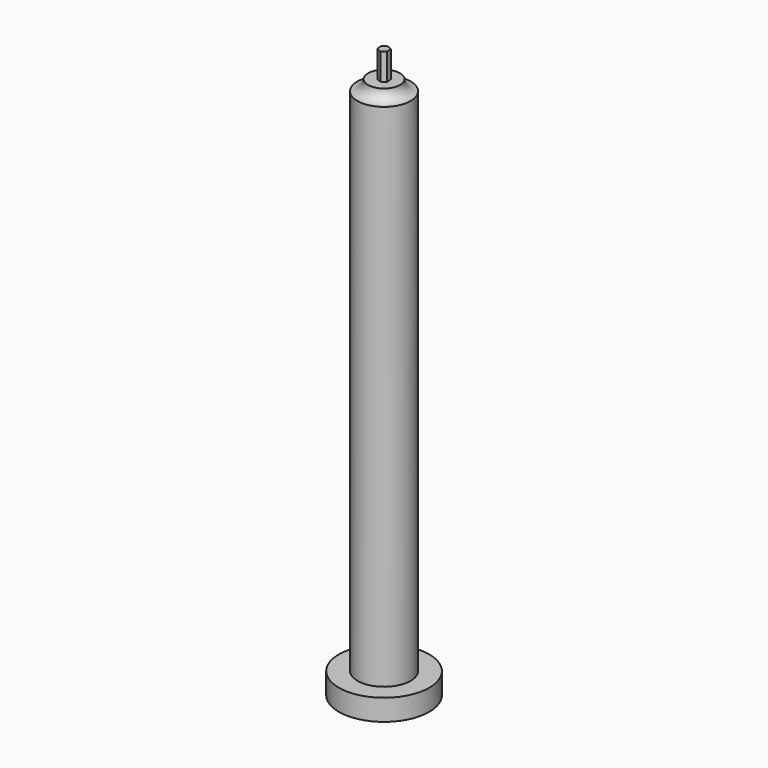
from build123d import *

# Parameters (mm, degrees)
F0_R     = 8.5
F1_DEPTH = 4
F2_R     = 5
F3_DEPTH = 100
F7_DEPTH = 5


with BuildPart() as f1:
    # F0 (on Top) → F1 (new body)
    with BuildSketch(Plane.XY):
        Circle(F0_R)
    extrude(amount=F1_DEPTH)

    # F2 (on Top) → F3 (join)
    with BuildSketch(Plane.XY):
        Circle(F2_R)
    extrude(amount=F3_DEPTH)

    # F4 (on Right) → F5 (revolve)
    with BuildSketch(Plane.YZ):
        with BuildLine():
            Line((3, 102), (0, 102))
            Line((0, 102), (0, 100))
            Line((0, 100), (5, 100))
            ThreePointArc((5, 100), (3.585786, 100.585786), (3, 102))
        make_face()
    revolve(axis=Axis((0, 0, 101), (0, 0, -1)))

    # F6 (on face) → F7 (join)
    with BuildSketch(Plane.XY.offset(102)):
        Polygon((0.087017, -0.996207), (0.906249, -0.422744), (0.819232, 0.573463), (-0.087017, 0.996207), (-0.906249, 0.422744), (-0.819232, -0.573463), align=None)
    extrude(amount=F7_DEPTH)


solid = f1.part
